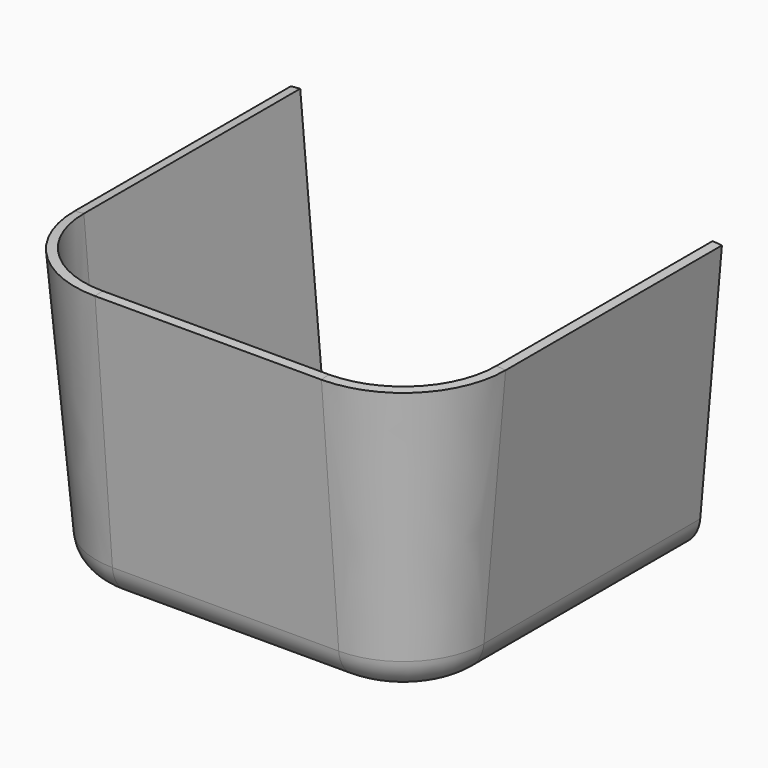
from build123d import *


with BuildPart() as f4:
    # F4: sweep along a path in F2
    with BuildLine(Plane.XY.offset(60)) as f4_path:
        Line((-46.337677, 0), (-46.337677, -58.146937))
        ThreePointArc((-46.337677, -58.146937), (-39.894026, -73.703286), (-24.337677, -80.146937))
        Line((-24.337677, -80.146937), (24.337677, -80.146937))
        ThreePointArc((24.337677, -80.146937), (39.894026, -73.703286), (46.337677, -58.146937))
        Line((46.337677, -58.146937), (46.337677, 0))
    # F3 (on Front) → F4 (sweep)
    with BuildSketch(Plane.XZ):
        with BuildLine():
            Line((-44.345288, 60.174311), (-46.337677, 60))
            Line((-46.337677, 60), (-41.676718, 6.724992))
            ThreePointArc((-41.676718, 6.724992), (-39.314801, 1.935497), (-34.337677, 0))
            Line((-34.337677, 0), (-34.337677, 2))
            ThreePointArc((-34.337677, 2), (-37.96362, 3.410052), (-39.684328, 6.899303))
            Line((-39.684328, 6.899303), (-44.345288, 60.174311))
        make_face()
    sweep(path=f4_path.line)


solid = f4.part
